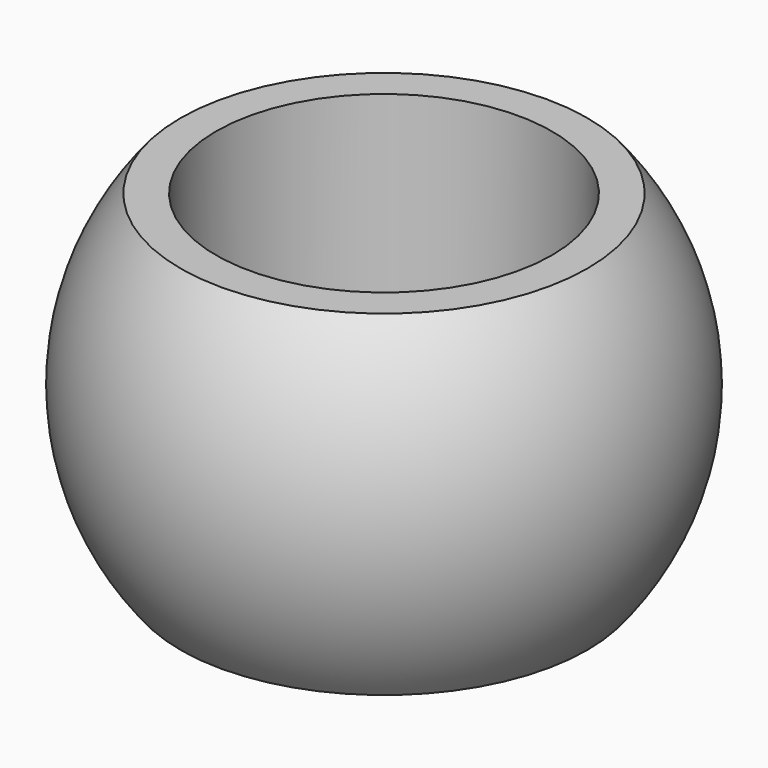
from build123d import *


with BuildPart() as f1:
    # F0 (on Front) → F1 (revolve)
    with BuildSketch(Plane.XZ):
        with BuildLine():
            Line((-11.1125, 11.1125), (-13.470384, 11.1125))
            ThreePointArc((-13.470384, 11.1125), (-17.4625, 0), (-13.470384, -11.1125))
            Line((-13.470384, -11.1125), (-11.1125, -11.1125))
            Line((-11.1125, -11.1125), (-11.1125, 11.1125))
        make_face()
    revolve(axis=Axis((0, 0, 0), (0, 0, -1)))


solid = f1.part
